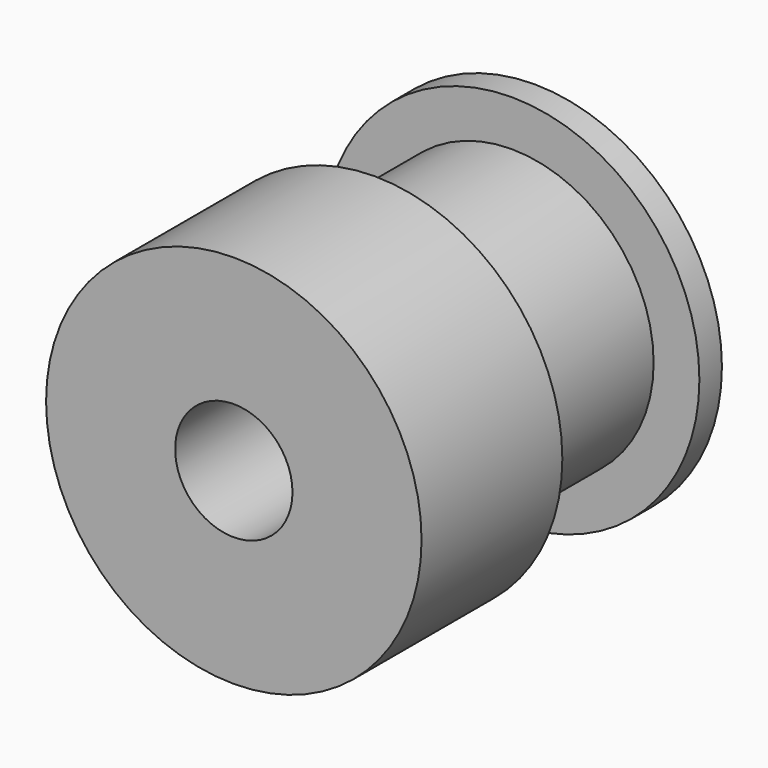
from build123d import *


with BuildPart() as part:
    # Sketch → Revolution (revolve)
    with BuildSketch(Plane.XY):
        Polygon((2.5, 0), (2.5, 16), (8, 16), (8, 14.8), (6.05, 14.8), (6.05, 7.5), (8, 7.5), (8, 0), align=None)
    revolve(axis=Axis((0, 0, 0), (0, 1, 0)))


solid = part.part
